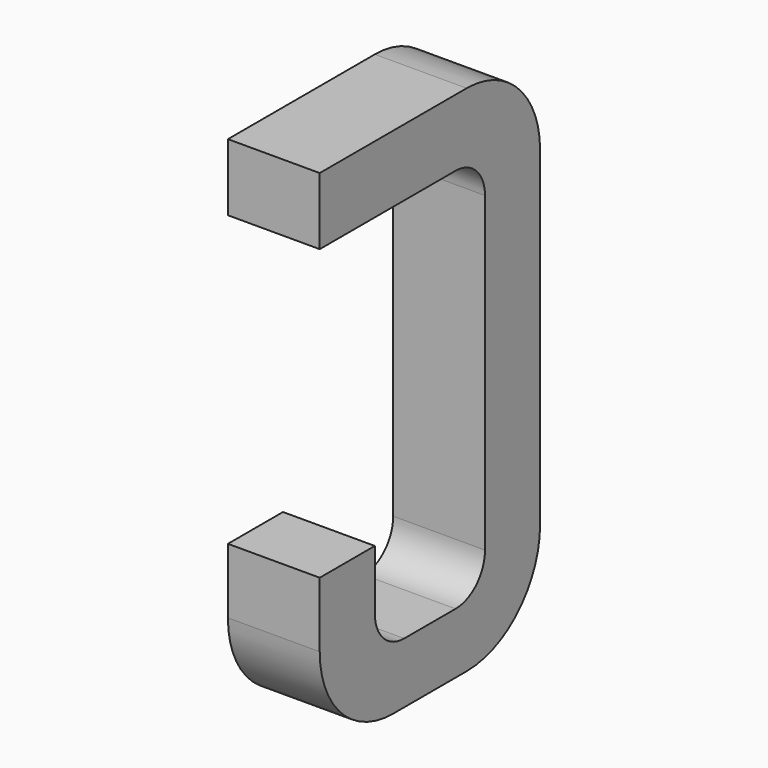
from build123d import *

# Parameters (mm, degrees)
BOX005_W     = 0.5
BOX005_H     = 1.5
BOX005_DEPTH = 2.795
FILLET010_R  = 0.5
FILLET012_R  = 0.5
FILLET009_R  = 0.5
BOX004_W     = 0.75
BOX004_H     = 2.1
BOX004_DEPTH = 1
FILLET011_R  = 0.2
FILLET013_R  = 0.2
FILLET007_R  = 0.2
FILLET008_R  = 0.2
BOX006_W     = 1
BOX006_H     = 1.575
BOX006_DEPTH = 3


with BuildPart() as part:
    # Box005 → Box005 (join)
    with BuildSketch(Plane(origin=(-0.25, 11.125, 0), x_dir=(1, 0, 0), z_dir=(0, 0, 1))):
        with Locations((0.25, 0.75)):
            Rectangle(BOX005_W, BOX005_H)
    extrude(amount=BOX005_DEPTH)

    # Fillet010
    fillet010_edges = [part.edges().sort_by_distance(p)[0] for p in [
        (0, 12.625, 0),
    ]]
    fillet(fillet010_edges, radius=FILLET010_R)

    # Fillet012
    fillet012_edges = [part.edges().sort_by_distance(p)[0] for p in [
        (0, 12.625, 2.795),
    ]]
    fillet(fillet012_edges, radius=FILLET012_R)

    # Fillet009
    fillet009_edges = [part.edges().sort_by_distance(p)[0] for p in [
        (0, 11.125, 0),
    ]]
    fillet(fillet009_edges, radius=FILLET009_R)

    # Box004 → Box004 (cut)
    with BuildSketch(Plane(origin=(-0.5, 11.5, 0.33), x_dir=(0, 1, 0), z_dir=(1, 0, 0))):
        with Locations((0.375, 1.05)):
            Rectangle(BOX004_W, BOX004_H)
    extrude(amount=BOX004_DEPTH, mode=Mode.SUBTRACT)

    # Fillet011
    fillet011_edges = [part.edges().sort_by_distance(p)[0] for p in [
        (0, 11.5, 0.33),
    ]]
    fillet(fillet011_edges, radius=FILLET011_R)

    # Fillet013
    fillet013_edges = [part.edges().sort_by_distance(p)[0] for p in [
        (0, 12.25, 0.33),
    ]]
    fillet(fillet013_edges, radius=FILLET013_R)

    # Fillet007
    fillet007_edges = [part.edges().sort_by_distance(p)[0] for p in [
        (0, 11.5, 2.43),
    ]]
    fillet(fillet007_edges, radius=FILLET007_R)

    # Fillet008
    fillet008_edges = [part.edges().sort_by_distance(p)[0] for p in [
        (0, 12.25, 2.43),
    ]]
    fillet(fillet008_edges, radius=FILLET008_R)

    # Box006 → Box006 (cut)
    with BuildSketch(Plane(origin=(-1, 11, 0.855), x_dir=(0, 1, 0), z_dir=(1, 0, 0))):
        with Locations((0.5, 0.7875)):
            Rectangle(BOX006_W, BOX006_H)
    extrude(amount=BOX006_DEPTH, mode=Mode.SUBTRACT)


with BuildPart() as part_1:
    # Body002 placement: moved
    add(part.part.moved(Location((1.27, 0, 0))))


solid = part_1.part
